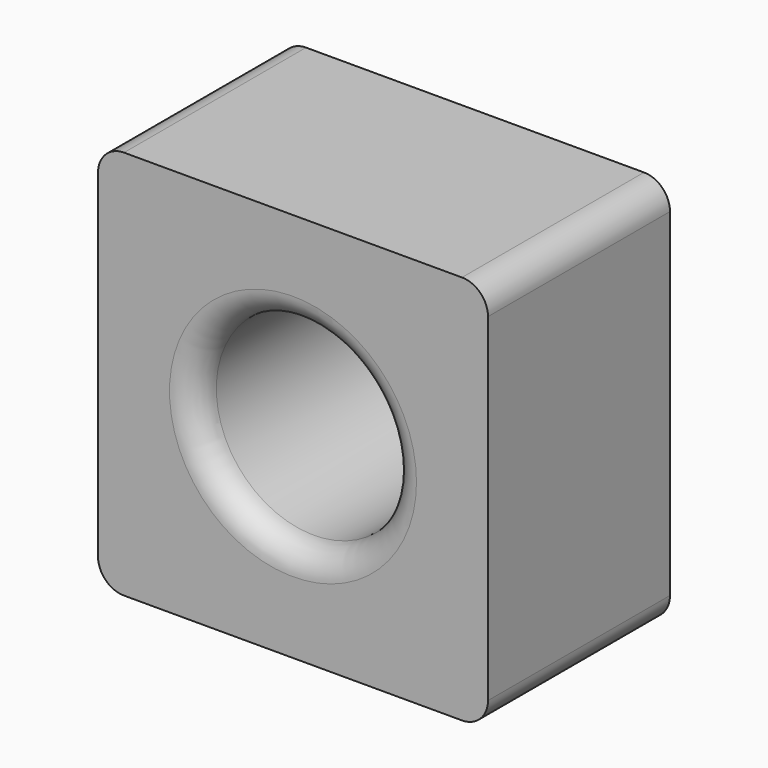
from build123d import *

# Parameters (mm, degrees)
F0_W     = 76.2
F0_H     = 76.2
F0_R     = 19.05
F1_DEPTH = 22.225
F2_R     = 5.08


with BuildPart() as f1:
    # F0 (on Front) → F1 (new body, symmetric)
    with BuildSketch(Plane.XZ):
        Rectangle(F0_W, F0_H)
        Circle(F0_R, mode=Mode.SUBTRACT)
    extrude(amount=F1_DEPTH, both=True)

    # F2
    f2_edges = [f1.edges().sort_by_distance(p)[0] for p in [
        (38.1, 0, 38.1),
        (-38.1, 0, 38.1),
        (38.1, 0, -38.1),
        (-38.1, 0, -38.1),
        (-19.05, -22.225, 0),
        (-19.05, 22.225, 0),
    ]]
    fillet(f2_edges, radius=F2_R)


solid = f1.part
